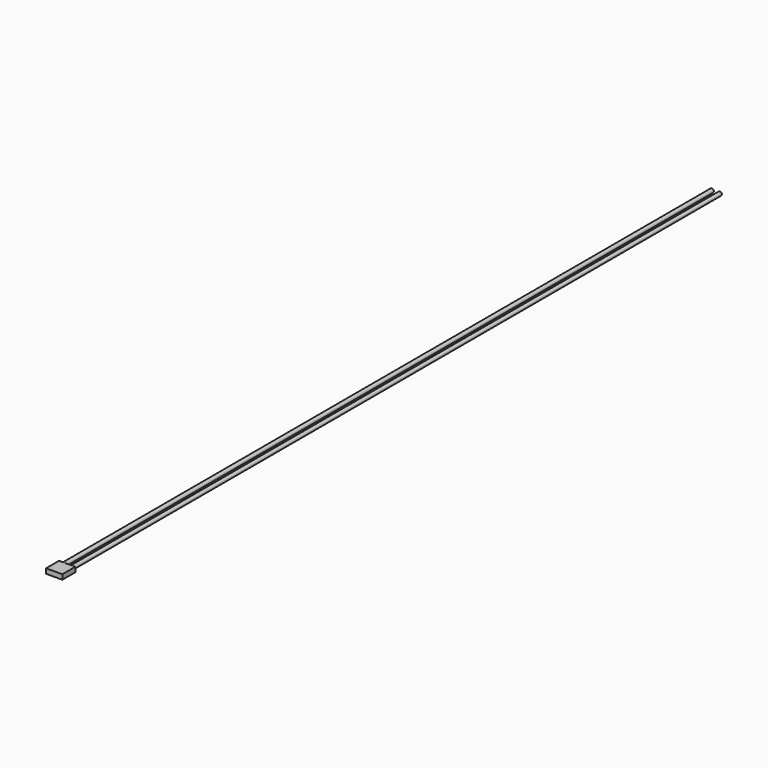
from build123d import *

# Parameters (mm, degrees)
F0_W     = 10
F0_H     = 10
F1_DEPTH = 3
F2_R     = 1.185142
F2_R_2   = 1.219893
F3_DEPTH = 500


with BuildPart() as f1:
    # F0 (on Top) → F1 (new body)
    with BuildSketch(Plane.XY):
        with Locations((0, 0.056683)):
            Rectangle(F0_W, F0_H)
    extrude(amount=F1_DEPTH)

    # F2 (on face) → F3 (join)
    with BuildSketch(Plane(origin=(0, 5.056683, 0), x_dir=(-1, 0, 0), z_dir=(0, 1, 0))):
        with Locations((-2.5, 1.5)):
            Circle(F2_R)
        with Locations((2.5, 1.5)):
            Circle(F2_R_2)
    extrude(amount=F3_DEPTH)


solid = f1.part
